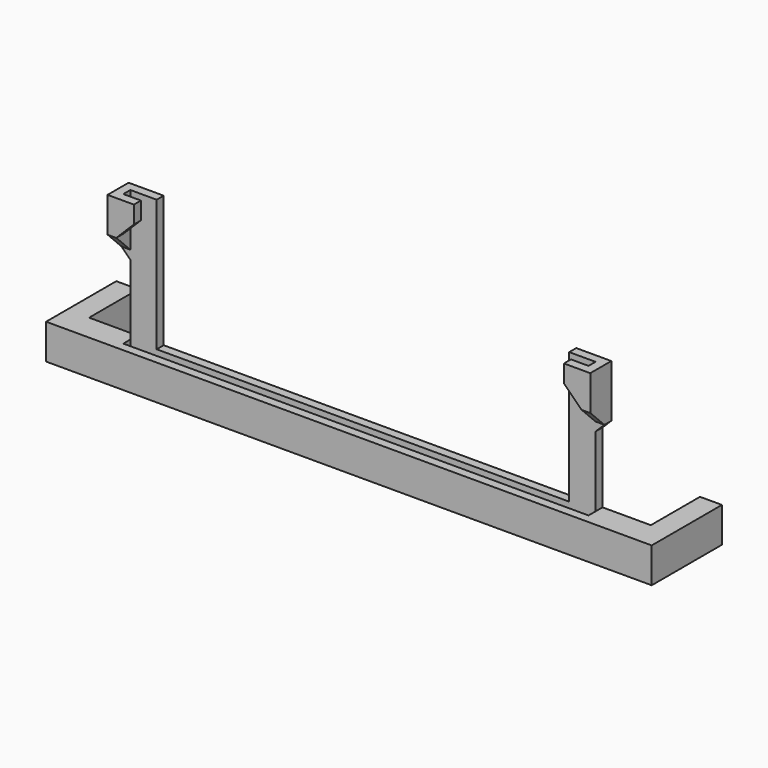
from build123d import *

# Parameters (mm, degrees)
PAD_DEPTH       = 4
SKETCH001_W     = 53
SKETCH001_H     = 1
POCKET_DEPTH    = 1
SKETCH002_W     = 3
SKETCH002_H     = 1
PAD001_DEPTH    = 13
PAD002_DEPTH    = 2
SKETCH004_W     = 1
SKETCH004_H     = 3
PAD003_DEPTH    = 2
CHAMFER_SIZE    = 1.99
SKETCH005_W     = 1
SKETCH005_H     = 1
PAD004_DEPTH    = 2
CHAMFER001_SIZE = 1.99
CHAMFER002_SIZE = 0.99


with BuildPart() as part:
    # Sketch → Pad (new body)
    with BuildSketch(Plane.XY):
        Polygon((34.5, 10), (34.5, 0), (-34.5, 0), (-34.5, 10), (-32, 10), (-32, 3), (32, 3), (32, 10), align=None)
    extrude(amount=PAD_DEPTH)

    # Sketch001 (on Face10 of Pad) → Pocket (cut)
    with BuildSketch(Plane.XY.offset(4)):
        with Locations((0, 1.5)):
            Rectangle(SKETCH001_W, SKETCH001_H)
    extrude(amount=-POCKET_DEPTH, mode=Mode.SUBTRACT)

    # Sketch002 (on Face5 of Pocket) → Pad001 (join)
    with BuildSketch(Plane.XY.offset(4)):
        with Locations((-25, 2.5)):
            Rectangle(SKETCH002_W, SKETCH002_H)
        with Locations((25, 2.5)):
            Rectangle(SKETCH002_W, SKETCH002_H)
    extrude(amount=PAD001_DEPTH)

    # Sketch003 (on Face20 of Pad001) → Pad002 (join)
    with BuildSketch(Plane.XY.offset(17)):
        Polygon((-23.5, 3), (-27.5, 3), (-27.5, 0), (-24.5, 0), (-24.5, 1), (-26.5, 1), (-26.5, 2), (-23.5, 2), align=None)
        Polygon((27.5, 3), (23.5, 3), (23.5, 2), (26.5, 2), (26.5, 1), (24.5, 1), (24.5, 0), (27.5, 0), align=None)
    extrude(amount=PAD002_DEPTH)

    # Sketch004 (on Face20 of Pad002) → Pad003 (join)
    with BuildSketch(Plane(origin=(0, 0, 17), x_dir=(1, 0, 0), z_dir=(0, 0, -1))):
        with Locations((-27, -1.5)):
            Rectangle(SKETCH004_W, SKETCH004_H)
        with Locations((27, -1.5)):
            Rectangle(SKETCH004_W, SKETCH004_H)
    extrude(amount=PAD003_DEPTH)

    # Chamfer
    chamfer_edges = [part.edges().sort_by_distance(p)[0] for p in [
        (-26.5, 0.5, 17),
        (26.5, 0.5, 17),
    ]]
    chamfer(chamfer_edges, length=CHAMFER_SIZE)

    # Sketch005 (on Face4 of Chamfer) → Pad004 (join)
    with BuildSketch(Plane(origin=(0, 0, 15), x_dir=(1, 0, 0), z_dir=(0, 0, -1))):
        with Locations((-27, -2.5)):
            Rectangle(SKETCH005_W, SKETCH005_H)
        with Locations((27, -2.5)):
            Rectangle(SKETCH005_W, SKETCH005_H)
    extrude(amount=PAD004_DEPTH)

    # Chamfer001
    chamfer001_edges = [part.edges().sort_by_distance(p)[0] for p in [
        (27, 2, 15),
        (-27, 2, 15),
    ]]
    chamfer(chamfer001_edges, length=CHAMFER001_SIZE)

    # Chamfer002
    chamfer002_edges = [part.edges().sort_by_distance(p)[0] for p in [
        (-26.5, 2.5, 13),
        (26.5, 2.5, 13),
    ]]
    chamfer(chamfer002_edges, length=CHAMFER002_SIZE)


solid = part.part
